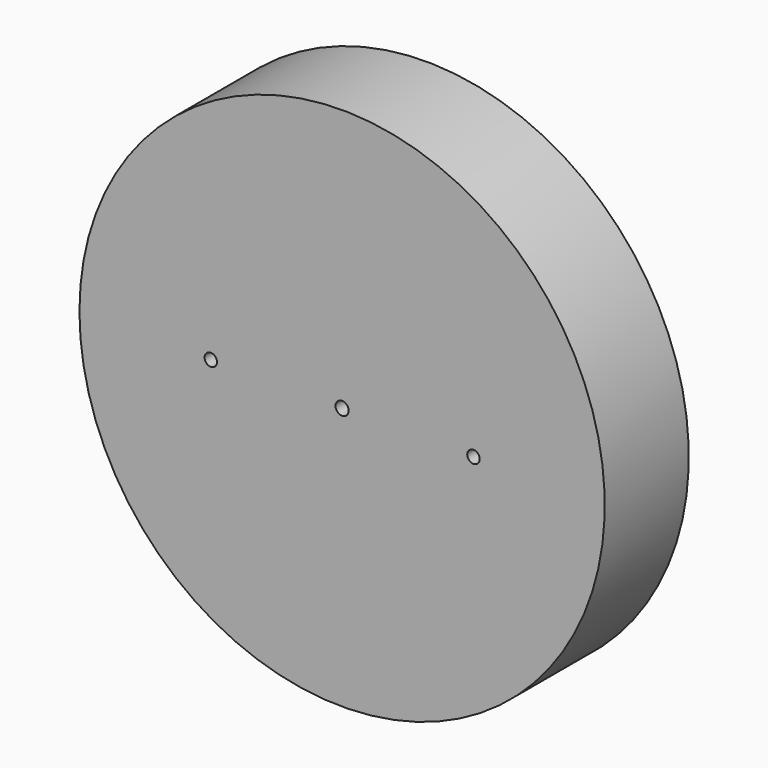
from build123d import *

# Parameters (mm, degrees)
F1_DEPTH = 25.4


with BuildPart() as f1:
    # F0 (on Front) → F1 (new body)
    with BuildSketch(Plane.XZ):
        with BuildLine():
            Line((33.25, 0), (63.5, 0))
            ThreePointArc((63.5, 0), (0, 63.5), (-63.5, 0))
            Line((-63.5, 0), (-33.25, 0))
            ThreePointArc((-33.25, 0), (-31.75, 1.5), (-30.25, 0))
            Line((-30.25, 0), (-1.5875, 0))
            ThreePointArc((-1.5875, 0), (0, 1.5875), (1.5875, 0))
            Line((1.5875, 0), (30.25, 0))
            ThreePointArc((30.25, 0), (31.75, 1.5), (33.25, 0))
        make_face()
        with BuildLine():
            ThreePointArc((-63.5, 0), (0, -63.5), (63.5, 0))
            Line((63.5, 0), (33.25, 0))
            ThreePointArc((33.25, 0), (31.75, -1.5), (30.25, 0))
            Line((30.25, 0), (1.5875, 0))
            ThreePointArc((1.5875, 0), (0, -1.5875), (-1.5875, 0))
            Line((-1.5875, 0), (-30.25, 0))
            ThreePointArc((-30.25, 0), (-31.75, -1.5), (-33.25, 0))
            Line((-33.25, 0), (-63.5, 0))
        make_face()
    extrude(amount=F1_DEPTH)


solid = f1.part
